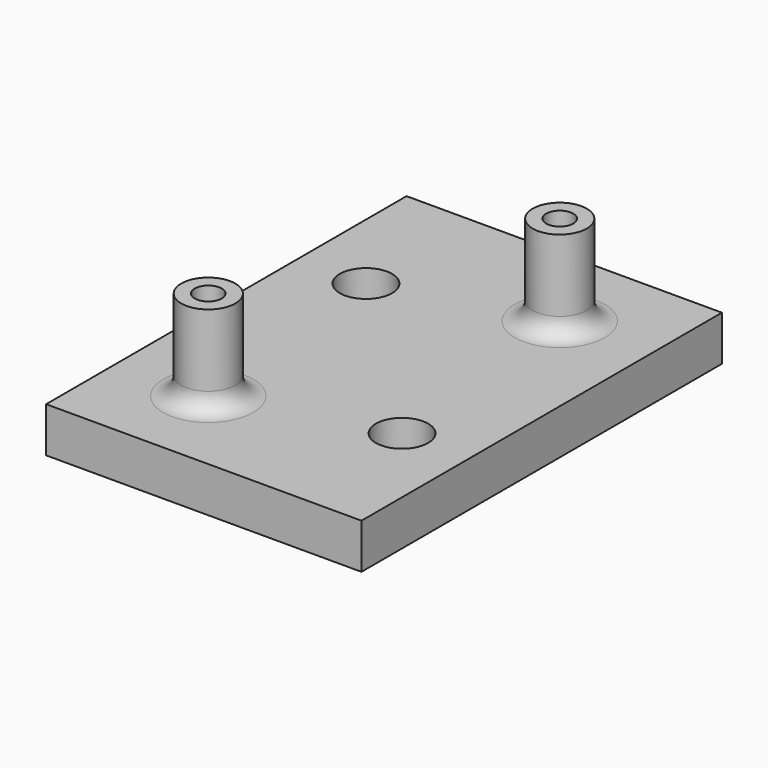
from build123d import *

# Parameters (mm, degrees)
SKETCH_W        = 35
SKETCH_H        = 50
PAD_DEPTH       = 5
SKETCH004_R     = 2.9
POCKET_DEPTH    = 3
SKETCH005_R     = 1.6
POCKET001_DEPTH = 5
SKETCH006_R     = 3
PAD001_DEPTH    = 10
SKETCH007_R     = 1.5
POCKET002_DEPTH = 8
FILLET_R        = 2


with BuildPart() as part:
    # Sketch → Pad (new body)
    with BuildSketch(Plane.XY):
        with Locations((17.5, 25)):
            Rectangle(SKETCH_W, SKETCH_H)
    extrude(amount=PAD_DEPTH)

    # Sketch004 (on Face6 of Pad) → Pocket (cut)
    with BuildSketch(Plane.XY.offset(5)):
        with Locations((7.5, 35)):
            Circle(SKETCH004_R)
        with Locations((27.5, 15)):
            Circle(SKETCH004_R)
    extrude(amount=-POCKET_DEPTH, mode=Mode.SUBTRACT)

    # Sketch005 (on Face9 of Pocket) → Pocket001 (cut)
    with BuildSketch(Plane.XY.offset(2)):
        with Locations((7.5, 15)):
            Circle(SKETCH005_R)
        with Locations((7.5, 35)):
            Circle(SKETCH005_R)
        with Locations((27.5, 15)):
            Circle(SKETCH005_R)
        with Locations((27.5, 35)):
            Circle(SKETCH005_R)
    extrude(amount=-POCKET001_DEPTH, mode=Mode.SUBTRACT)

    # Sketch006 (on Face5 of Pocket001) → Pad001 (new body)
    with BuildSketch(Plane.XY.offset(5)):
        with Locations((10, 10)):
            Circle(SKETCH006_R)
        with Locations((25, 40)):
            Circle(SKETCH006_R)
    extrude(amount=PAD001_DEPTH)

    # Sketch007 (on Face19 of Pad001) → Pocket002 (cut)
    with BuildSketch(Plane.XY.offset(15)):
        with Locations((10, 10)):
            Circle(SKETCH007_R)
        with Locations((25, 40)):
            Circle(SKETCH007_R)
    extrude(amount=-POCKET002_DEPTH, mode=Mode.SUBTRACT)

    # Fillet
    fillet_edges = [part.edges().sort_by_distance(p)[0] for p in [
        (22, 40, 5),
        (7, 10, 5),
    ]]
    fillet(fillet_edges, radius=FILLET_R)


solid = part.part
